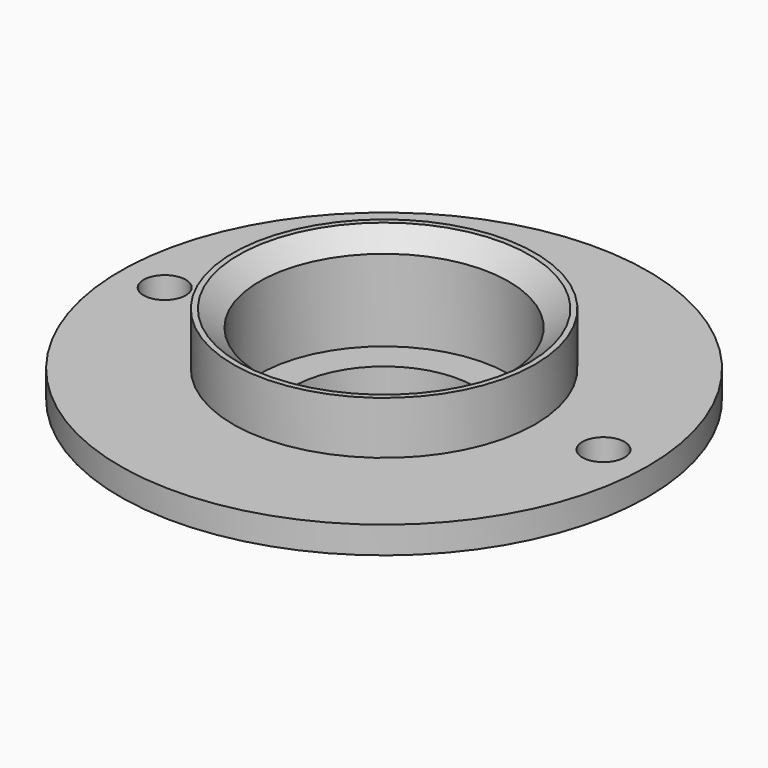
from build123d import *

# Parameters (mm, degrees)
F2_R     = 2.54
F3_DEPTH = 9.6022
F4_SIZE  = 1.5
F5_SIZE2 = 2.5
F5_SIZE  = 2


with BuildPart() as f1:
    # F0 (on Front) → F1 (revolve)
    with BuildSketch(Plane.XZ):
        Polygon((31.75, -5.978718), (31.75, -2.727518), (18.161, -2.727518), (18.161, 3.622482), (15, 3.622482), (15, -8.179607), (10.922, -8.179607), (10.922, -12.328718), (18.161, -12.328718), (18.161, -5.978718), align=None)
    revolve(axis=Axis((0, 0, -5.153181), (0, 0, -1)))

    # F2 (on face) → F3 (cut, through all)
    with BuildSketch(Plane.XY.offset(-2.727518)):
        with Locations((26.3906, 0)):
            Circle(F2_R)
        with Locations((-26.3906, 0)):
            Circle(F2_R)
    extrude(amount=-F3_DEPTH, mode=Mode.SUBTRACT)

    # F4
    f4_edges = [f1.edges().sort_by_distance(p)[0] for p in [
        (-18.161, 0, -12.328718),
    ]]
    chamfer(f4_edges, length=F4_SIZE)

    # F5
    f5_edges = [f1.edges().sort_by_distance(p)[0] for p in [
        (-15, 0, 3.622482),
    ]]
    chamfer(f5_edges, length=F5_SIZE, length2=F5_SIZE2)


solid = f1.part
